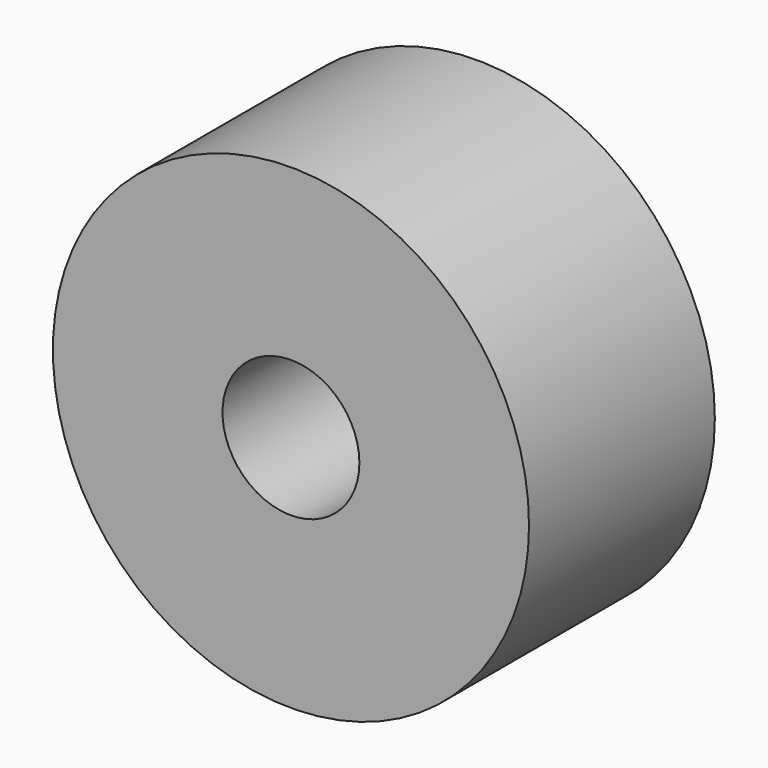
from build123d import *

# Parameters (mm, degrees)
F0_R          = 12.299542
F0_R_2        = 3.535869
F1_DEPTH      = 10
F1_DEPTH_BACK = 2


with BuildPart() as f1:
    # F0 (on Front) → F1 (new body, two sides)
    with BuildSketch(Plane.XZ) as f1_sk:
        with Locations((-37.989244, 42.020757)):
            Circle(F0_R)
        with Locations((-37.989244, 42.020757)):
            Circle(F0_R_2, mode=Mode.SUBTRACT)
    extrude(amount=F1_DEPTH)
    extrude(f1_sk.sketch, amount=-F1_DEPTH_BACK)


solid = f1.part
